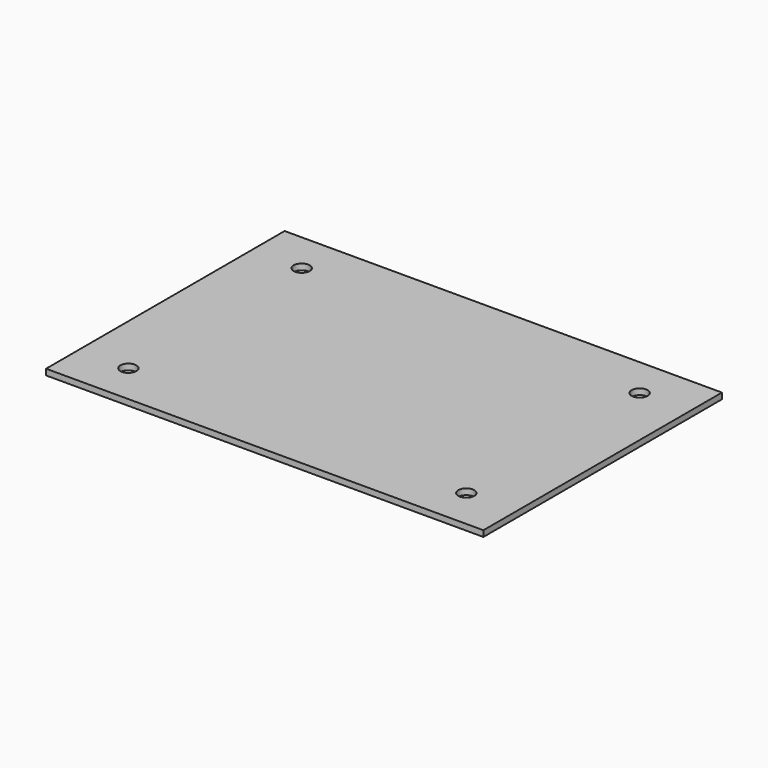
from build123d import *

# Parameters (mm, degrees)
F0_W     = 220
F0_H     = 150
F2_DEPTH = 3
F3_D     = 8


with BuildPart() as f2:
    # F0 (on Top) → F2 (new body)
    with BuildSketch(Plane.XY):
        Rectangle(F0_W, F0_H)
    extrude(amount=-F2_DEPTH)

    # F3 (through all)
    with Locations(Plane.XY):
        with Locations((85, -54.5), (85, 54.5), (-85, 54.5), (-85, -54.5)):
            Hole(F3_D / 2)


solid = f2.part
